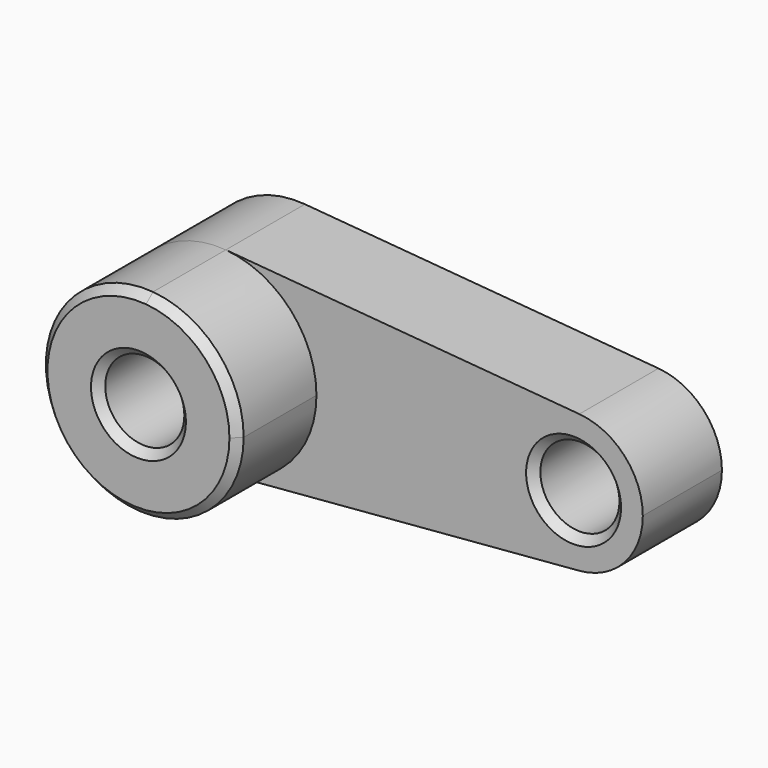
from build123d import *

# Parameters (mm, degrees)
F0_R     = 10
F1_DEPTH = 25
F2_DEPTH = 50
F3_SIZE  = 2
F4_DEPTH = 25


with BuildPart() as f1:
    # F0 (on Front) → F1 (new body)
    with BuildSketch(Plane.XZ):
        with BuildLine():
            ThreePointArc((2.083333, -24.913043), (18.399502, -16.92508), (25, 0))
            ThreePointArc((25, 0), (18.399502, 16.92508), (2.083333, 24.913043))
            ThreePointArc((2.083333, 24.913043), (-25, 0), (2.083333, -24.913043))
        make_face()
        Circle(F0_R, mode=Mode.SUBTRACT)
        with BuildLine():
            ThreePointArc((2.083333, 24.913043), (18.399502, 16.92508), (25, 0))
            ThreePointArc((25, 0), (18.399502, -16.92508), (2.083333, -24.913043))
            Line((2.083333, -24.913043), (91.458333, -17.43913))
            ThreePointArc((91.458333, -17.43913), (72.5, 0), (91.458333, 17.43913))
            Line((91.458333, 17.43913), (2.083333, 24.913043))
        make_face()
        with BuildLine():
            ThreePointArc((107.5, 0), (102.879651, 11.847556), (91.458333, 17.43913))
            ThreePointArc((91.458333, 17.43913), (72.5, 0), (91.458333, -17.43913))
            ThreePointArc((91.458333, -17.43913), (102.879651, -11.847556), (107.5, 0))
        make_face()
        with Locations((90, 0)):
            Circle(F0_R, mode=Mode.SUBTRACT)
    extrude(amount=F1_DEPTH)

    # F0 (on Front) → F2 (join)
    with BuildSketch(Plane.XZ):
        with BuildLine():
            ThreePointArc((2.083333, -24.913043), (18.399502, -16.92508), (25, 0))
            ThreePointArc((25, 0), (18.399502, 16.92508), (2.083333, 24.913043))
            ThreePointArc((2.083333, 24.913043), (-25, 0), (2.083333, -24.913043))
        make_face()
        Circle(F0_R, mode=Mode.SUBTRACT)
    extrude(amount=F2_DEPTH)

    # F3
    f3_edges = [f1.edges().sort_by_distance(p)[0] for p in [
        (-2.083333, -50, 24.913043),
        (-10, -50, 0),
        (80, -25, 0),
    ]]
    chamfer(f3_edges, length=F3_SIZE)


with BuildPart() as f4:
    # F0 (on Front) → F4 (new body)
    with BuildSketch(Plane.XZ):
        with BuildLine():
            ThreePointArc((2.083333, -24.913043), (18.399502, -16.92508), (25, 0))
            ThreePointArc((25, 0), (18.399502, 16.92508), (2.083333, 24.913043))
            ThreePointArc((2.083333, 24.913043), (-25, 0), (2.083333, -24.913043))
        make_face()
        Circle(F0_R, mode=Mode.SUBTRACT)
    extrude(amount=F4_DEPTH)


solid = Compound([f1.part, f4.part])
